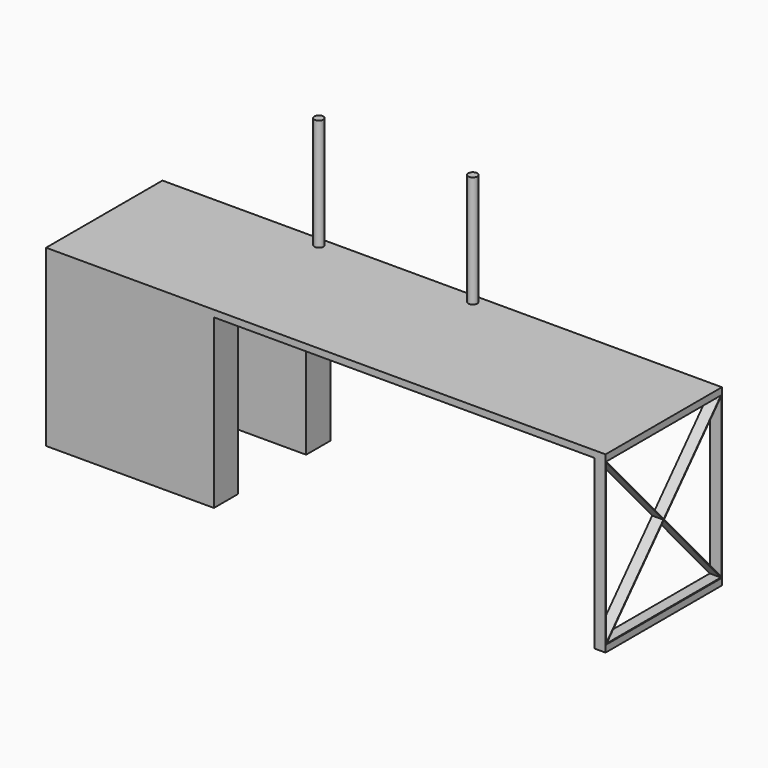
from build123d import *

# Parameters (mm, degrees)
F0_W      = 2500
F0_H      = 650
F1_DEPTH  = 30
F2_W      = 750
F2_H      = 135
F3_DEPTH  = 750
F4_W      = 50
F4_H      = 3
F5_DEPTH  = 750
F6_W      = 50
F6_H      = 30
F6_H_2    = 3
F7_DEPTH  = 644
F8_R      = 0.6
F10_R     = 20
F11_DEPTH = 500
F12_DEPTH = 50


with BuildPart() as f1:
    # F0 (on Top) → F1 (new body)
    with BuildSketch(Plane.XY):
        with Locations((15.4022108763, -104.233725491)):
            Rectangle(F0_W, F0_H)
    extrude(amount=F1_DEPTH)

    # F2 (on face) → F3 (join)
    with BuildSketch(Plane(origin=(0, 0, 0), x_dir=(1, 0, 0), z_dir=(0, 0, -1))):
        with Locations((-859.5977891237, 361.733725491)):
            Rectangle(F2_W, F2_H)
        with Locations((-859.5977891237, -153.266274509)):
            Rectangle(F2_W, F2_H)
    extrude(amount=F3_DEPTH)

    # F4 (on face) → F5 (join)
    with BuildSketch(Plane(origin=(0, 0, 0), x_dir=(1, 0, 0), z_dir=(0, 0, -1))):
        with Locations((1240.4022108763, 427.733725491)):
            Rectangle(F4_W, F4_H)
        with Locations((1240.4022108763, -219.266274509)):
            Rectangle(F4_W, F4_H)
    extrude(amount=F5_DEPTH)

    # F6 (on face) → F7 (join, through all)
    with BuildSketch(Plane(origin=(0, -426.233725491, 0), x_dir=(-1, 0, 0), z_dir=(0, 1, 0))):
        with Locations((-1240.4022108763, -735)):
            Rectangle(F6_W, F6_H)
        with Locations((-1240.4022108763, -718)):
            Rectangle(F6_W, F6_H_2)
    extrude(amount=F7_DEPTH)

    # F8
    f8_edges = [f1.edges().sort_by_distance(p)[0] for p in [
        (1215.402211, -104.233725, -716.5),
        (1215.402211, -104.233725, -719.5),
        (1265.402211, -104.233725, -719.5),
        (1265.402211, -104.233725, -716.5),
    ]]
    fillet(f8_edges, radius=F8_R)

    # F10 (on face) → F11 (join)
    with BuildSketch(Plane.XY.offset(30)):
        with Locations((-503.3661296115, 180.766274509)):
            Circle(F10_R)
        with Locations((184.1705513642, 180.766274509)):
            Circle(F10_R)
    extrude(amount=F11_DEPTH)

    # F9 (on face) → F12 (join)
    with BuildSketch(Plane.YZ.offset(1265.4022108763)):
        Polygon((-426.233725491, -2.2449458227), (-420.1270755585, -9.0447574168), (-106.2498252118, -358.55), (-426.233725491, -714.8550541773), (-426.233725491, -716.5), (-426.233725491, -717.1), (-424.2176257702, -717.1), (-104.233725491, -360.7949458227), (215.7501747882, -717.1), (217.766274509, -717.1), (217.766274509, -716.5), (217.766274509, -714.8550541773), (-102.2176257702, -358.55), (204.5102027522, -17.0057052277), (217.766274509, -2.2449458227), (217.766274509, 0), (215.7501747882, 0), (202.2781703018, -15.0012025111), (-104.233725491, -356.3050541773), (-417.8950431081, -7.0402547003), (-424.2176257702, 0), (-426.233725491, 0), align=None)
    extrude(amount=-F12_DEPTH)


solid = f1.part
